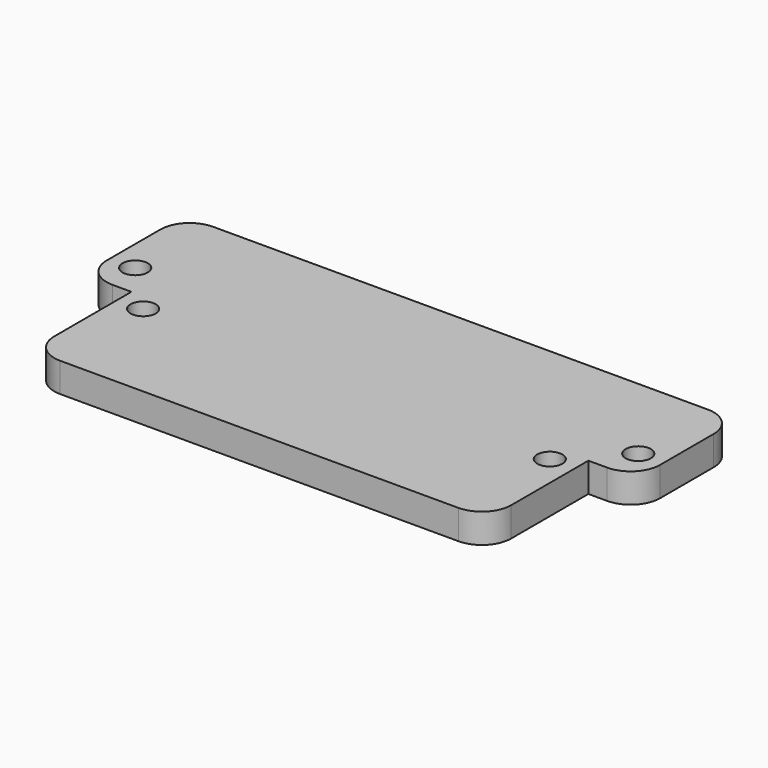
from build123d import *

# Parameters (mm, degrees)
F0_R     = 1.5
F0_W     = 54.5
F0_H     = 15
F1_DEPTH = 3.5
F2_R     = 3.5


with BuildPart() as f1:
    # F0 (on Top) → F1 (new body)
    with BuildSketch(Plane.XY):
        Polygon((27.25, -7.5), (33, -7.5), (33, 7.5), (-33, 7.5), (-33, -7.5), (-27.25, -7.5), align=None)
        with Locations((-30, -3.5)):
            Circle(F0_R, mode=Mode.SUBTRACT)
        with Locations((30, -3.5)):
            Circle(F0_R, mode=Mode.SUBTRACT)
        with Locations((0, -15)):
            Rectangle(F0_W, F0_H)
        with Locations((-24.25, -9.5)):
            Circle(F0_R, mode=Mode.SUBTRACT)
        with Locations((24.25, -9.5)):
            Circle(F0_R, mode=Mode.SUBTRACT)
    extrude(amount=F1_DEPTH)

    # F2
    f2_edges = [f1.edges().sort_by_distance(p)[0] for p in [
        (-33, 7.5, 1.75),
        (33, 7.5, 1.75),
        (27.25, -22.5, 1.75),
        (-27.25, -22.5, 1.75),
        (33, -7.5, 1.75),
        (-33, -7.5, 1.75),
    ]]
    fillet(f2_edges, radius=F2_R)


solid = f1.part
